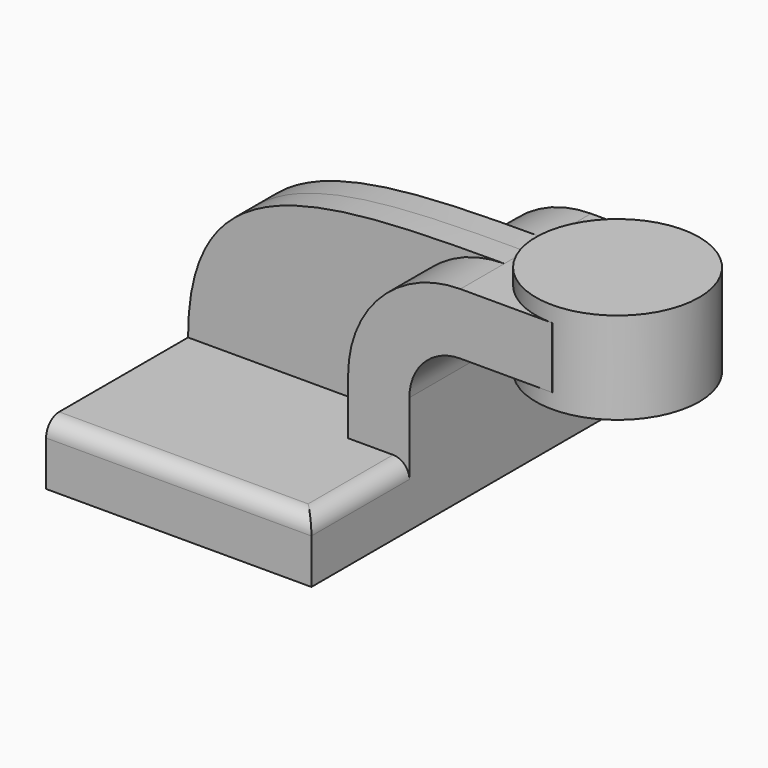
from build123d import *

# Parameters (mm, degrees)
F1_DEPTH = 63.5
F0_W     = 25.4
F0_H     = 19.05
F2_DEPTH = 25.4
F3_DEPTH = 8.2804
F5_R     = 5.08


with BuildPart() as f1:
    # F0 (on Front) → F1 (new body, symmetric)
    with BuildSketch(Plane.XZ):
        Polygon((-41.275, -9.525), (41.275, -9.525), (41.275, 9.525), (22.225, 9.525), (-41.275, 9.525), align=None)
    extrude(amount=F1_DEPTH, both=True)

    # F0 (on Front) → F2 (join, symmetric)
    with BuildSketch(Plane.XZ):
        with BuildLine():
            Line((22.225, 9.525), (41.275, 9.525))
            Line((41.275, 9.525), (41.275, 26.8334691807))
            ThreePointArc((41.275, 26.8334691807), (45.9246798487, 38.058789332), (57.15, 42.7084691807))
            Line((57.15, 42.7084691807), (60.325, 42.7084691807))
            Line((60.325, 42.7084691807), (60.325, 61.7584691807))
            Line((60.325, 61.7584691807), (57.15, 61.7584691807))
            ThreePointArc((57.15, 61.7584691807), (32.4542956671, 51.5291735137), (22.225, 26.8334691807))
            Line((22.225, 26.8334691807), (22.225, 9.525))
        make_face()
        with Locations((73.025, 52.2334691807)):
            Rectangle(F0_W, F0_H)
    extrude(amount=F2_DEPTH, both=True)

    # F0 (on Front) → F3 (join, symmetric)
    with BuildSketch(Plane.XZ):
        with BuildLine():
            add(Edge.make_bspline(
                [(-41.275, 9.525), (-41.3716472685, 60.0888580084), (0, 61.7584691807), (57.15, 61.7584691807)],
                knots=[0, 0, 0, 0, 111.4262802379, 111.4262802379, 111.4262802379, 111.4262802379], degree=3))
            Line((-41.275, 9.525), (22.225, 9.525))
            Line((22.225, 9.525), (22.225, 26.8334691807))
            ThreePointArc((22.225, 26.8334691807), (32.4542956671, 51.5291735137), (57.15, 61.7584691807))
        make_face()
    extrude(amount=F3_DEPTH, both=True)

    # F5
    f5_edges = [f1.edges().sort_by_distance(p)[0] for p in [
        (0, -63.5, 9.525),
        (41.275, -44.45, 9.525),
        (41.275, 44.45, 9.525),
        (41.275, 63.5, 0),
        (0, 63.5, 9.525),
    ]]
    fillet(f5_edges, radius=F5_R)


with BuildPart() as f4:
    # F0 (on Front) → F4 (revolve)
    with BuildSketch(Plane.XZ):
        Polygon((85.725, 66.675), (85.725, 61.7584691807), (85.725, 42.7084691807), (85.725, 38.1), (111.125, 38.1), (111.125, 66.675), align=None)
    revolve(axis=Axis((85.725, 0, 52.3875), (0, 0, 1)))


solid = Compound([f1.part, f4.part])
